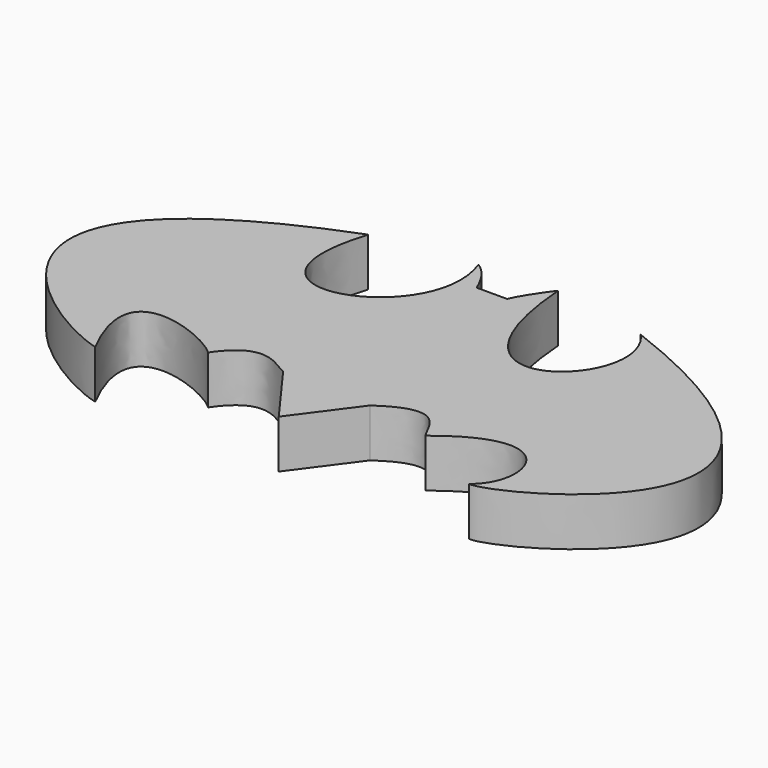
from build123d import *

# Parameters (mm, degrees)
F1_DEPTH = 10
F2_DEPTH = 10


with BuildPart() as f1:
    # F0 (on Top) → F1 (new body)
    with BuildSketch(Plane.XY):
        with BuildLine():
            Line((3.0976026609, 40.3743684292), (-3.1979687046, 40.3743684292))
            add(Edge.make_bspline(
                [(-8.0394047152, 46.8744894546), (-5.0634508952, 44.9048280716), (-3.997460939, 41.9733524323), (-3.1979687046, 40.3743684292)],
                knots=[0, 0, 0, 0, 8.1050031455, 8.1050031455, 8.1050031455, 8.1050031455], degree=3))
            add(Edge.make_bspline(
                [(-8.0394047152, 46.8744894546), (0, 24.9175149947), (-38.6421345174, 11.5926405415), (-28.4783576003, 43.922968086)],
                knots=[0, 0, 0, 0, 20.6509630146, 20.6509630146, 20.6509630146, 20.6509630146], degree=3))
            add(Edge.make_bspline(
                [(-28.4783576003, 43.922968086), (-98.0710685253, 17.1890873462), (-49.30203408, -11.5926405415), (-38.3756347001, -14.2576145008)],
                knots=[0, 0, 0, 0, 59.0164069063, 59.0164069063, 59.0164069063, 59.0164069063], degree=3))
            add(Edge.make_bspline(
                [(-38.3756347001, -14.2576145008), (-50.3680221736, 8.9276656508), (-27.4492390454, 0), (-22.9187831283, -4.3972083367)],
                knots=[0, 0, 0, 0, 18.3341721993, 18.3341721993, 18.3341721993, 18.3341721993], degree=3))
            add(Edge.make_bspline(
                [(-9.3274116516, -1.9987309352), (-11.7485010996, -1.0202123085), (-16.9190522283, 4.4950419106), (-22.9187831283, -4.3972083367)],
                knots=[0, 0, 0, 0, 13.8013793681, 13.8013793681, 13.8013793681, 13.8013793681], degree=3))
            Line((-9.3274116516, -1.9987309352), (0, -14.790609479))
            Line((0, -14.790609479), (9.0609146282, -2.5317261461))
            add(Edge.make_bspline(
                [(22.6522870362, -5.1967003383), (20.7868050784, -2.5317261461), (19.7208151221, 4.9302033149), (9.0609146282, -2.5317261461)],
                knots=[0, 0, 0, 0, 13.8501801929, 13.8501801929, 13.8501801929, 13.8501801929], degree=3))
            add(Edge.make_bspline(
                [(38.6421345174, -13.9911174774), (46.6370582581, -7.8616756946), (41.3071103394, 9.9936546758), (22.6522870362, -5.1967003383)],
                knots=[0, 0, 0, 0, 18.2487532531, 18.2487532531, 18.2487532531, 18.2487532531], degree=3))
            add(Edge.make_bspline(
                [(27.7157388628, 44.1053286195), (100.7360443473, 16.1230973899), (45.8375662565, -14.5241124555), (38.6421345174, -13.9911174774)],
                knots=[0, 0, 0, 0, 59.114999544, 59.114999544, 59.114999544, 59.114999544], degree=3))
            add(Edge.make_bspline(
                [(7.7284271829, 47.569796443), (10.926396586, 4.6637058258), (40.2411185205, 30.5139608681), (27.7157388628, 44.1053286195)],
                knots=[0, 0, 0, 0, 20.2853436128, 20.2853436128, 20.2853436128, 20.2853436128], degree=3))
            add(Edge.make_bspline(
                [(3.1979703344, 40.3743684292), (3.8295369522, 41.0204581019), (7.468618972, 46.819058009), (7.7284271829, 47.569796443)],
                knots=[0.268846453, 0.268846453, 0.268846453, 0.268846453, 0.6834405804, 0.6834405804, 0.6834405804, 0.6834405804], degree=3))
            add(Edge.make_bspline(
                [(3.0976026609, 40.3743684292), (3.0826582179, 40.2937456666), (3.1132640682, 40.2877143181), (3.1979703344, 40.3743684292)],
                knots=[0.2132407266, 0.2132407266, 0.2132407266, 0.2132407266, 0.268846453, 0.268846453, 0.268846453, 0.268846453], degree=3))
        make_face()
        with BuildLine():
            add(Edge.make_bspline(
                [(4.7969548032, 43.5723364353), (3.882095611, 42.089682322), (3.1549126557, 40.683546235), (3.0976026609, 40.3743684292)],
                knots=[0, 0, 0, 0, 0.2132407266, 0.2132407266, 0.2132407266, 0.2132407266], degree=3))
            Line((3.0976026609, 40.3743684292), (3.1979703344, 40.3743684292))
            add(Edge.make_bspline(
                [(3.1979703344, 40.3743684292), (3.8295369522, 41.0204581019), (7.468618972, 46.819058009), (7.7284271829, 47.569796443)],
                knots=[0.268846453, 0.268846453, 0.268846453, 0.268846453, 0.6834405804, 0.6834405804, 0.6834405804, 0.6834405804], degree=3))
            add(Edge.make_bspline(
                [(7.7284271829, 47.569796443), (7.9268012818, 48.1430156645), (6.1550785515, 45.7733612259), (4.7969548032, 43.5723364353)],
                knots=[0.6834405804, 0.6834405804, 0.6834405804, 0.6834405804, 1, 1, 1, 1], degree=3))
        make_face()
        with BuildLine():
            Line((3.1979703344, 40.3743684292), (3.0976026609, 40.3743684292))
            add(Edge.make_bspline(
                [(3.0976026609, 40.3743684292), (3.0826582179, 40.2937456666), (3.1132640682, 40.2877143181), (3.1979703344, 40.3743684292)],
                knots=[0.2132407266, 0.2132407266, 0.2132407266, 0.2132407266, 0.268846453, 0.268846453, 0.268846453, 0.268846453], degree=3))
        make_face()
    extrude(amount=F1_DEPTH)

    # F0 (on Top) → F2 (join)
    with BuildSketch(Plane.XY):
        with BuildLine():
            Line((3.0976026609, 40.3743684292), (-3.1979687046, 40.3743684292))
            add(Edge.make_bspline(
                [(-8.0394047152, 46.8744894546), (-5.0634508952, 44.9048280716), (-3.997460939, 41.9733524323), (-3.1979687046, 40.3743684292)],
                knots=[0, 0, 0, 0, 8.1050031455, 8.1050031455, 8.1050031455, 8.1050031455], degree=3))
            add(Edge.make_bspline(
                [(-8.0394047152, 46.8744894546), (0, 24.9175149947), (-38.6421345174, 11.5926405415), (-28.4783576003, 43.922968086)],
                knots=[0, 0, 0, 0, 20.6509630146, 20.6509630146, 20.6509630146, 20.6509630146], degree=3))
            add(Edge.make_bspline(
                [(-28.4783576003, 43.922968086), (-98.0710685253, 17.1890873462), (-49.30203408, -11.5926405415), (-38.3756347001, -14.2576145008)],
                knots=[0, 0, 0, 0, 59.0164069063, 59.0164069063, 59.0164069063, 59.0164069063], degree=3))
            add(Edge.make_bspline(
                [(-38.3756347001, -14.2576145008), (-50.3680221736, 8.9276656508), (-27.4492390454, 0), (-22.9187831283, -4.3972083367)],
                knots=[0, 0, 0, 0, 18.3341721993, 18.3341721993, 18.3341721993, 18.3341721993], degree=3))
            add(Edge.make_bspline(
                [(-9.3274116516, -1.9987309352), (-11.7485010996, -1.0202123085), (-16.9190522283, 4.4950419106), (-22.9187831283, -4.3972083367)],
                knots=[0, 0, 0, 0, 13.8013793681, 13.8013793681, 13.8013793681, 13.8013793681], degree=3))
            Line((-9.3274116516, -1.9987309352), (0, -14.790609479))
            Line((0, -14.790609479), (9.0609146282, -2.5317261461))
            add(Edge.make_bspline(
                [(22.6522870362, -5.1967003383), (20.7868050784, -2.5317261461), (19.7208151221, 4.9302033149), (9.0609146282, -2.5317261461)],
                knots=[0, 0, 0, 0, 13.8501801929, 13.8501801929, 13.8501801929, 13.8501801929], degree=3))
            add(Edge.make_bspline(
                [(38.6421345174, -13.9911174774), (46.6370582581, -7.8616756946), (41.3071103394, 9.9936546758), (22.6522870362, -5.1967003383)],
                knots=[0, 0, 0, 0, 18.2487532531, 18.2487532531, 18.2487532531, 18.2487532531], degree=3))
            add(Edge.make_bspline(
                [(27.7157388628, 44.1053286195), (100.7360443473, 16.1230973899), (45.8375662565, -14.5241124555), (38.6421345174, -13.9911174774)],
                knots=[0, 0, 0, 0, 59.114999544, 59.114999544, 59.114999544, 59.114999544], degree=3))
            add(Edge.make_bspline(
                [(7.7284271829, 47.569796443), (10.926396586, 4.6637058258), (40.2411185205, 30.5139608681), (27.7157388628, 44.1053286195)],
                knots=[0, 0, 0, 0, 20.2853436128, 20.2853436128, 20.2853436128, 20.2853436128], degree=3))
            add(Edge.make_bspline(
                [(3.1979703344, 40.3743684292), (3.8295369522, 41.0204581019), (7.468618972, 46.819058009), (7.7284271829, 47.569796443)],
                knots=[0.268846453, 0.268846453, 0.268846453, 0.268846453, 0.6834405804, 0.6834405804, 0.6834405804, 0.6834405804], degree=3))
            add(Edge.make_bspline(
                [(3.0976026609, 40.3743684292), (3.0826582179, 40.2937456666), (3.1132640682, 40.2877143181), (3.1979703344, 40.3743684292)],
                knots=[0.2132407266, 0.2132407266, 0.2132407266, 0.2132407266, 0.268846453, 0.268846453, 0.268846453, 0.268846453], degree=3))
        make_face()
        with BuildLine():
            add(Edge.make_bspline(
                [(4.7969548032, 43.5723364353), (3.882095611, 42.089682322), (3.1549126557, 40.683546235), (3.0976026609, 40.3743684292)],
                knots=[0, 0, 0, 0, 0.2132407266, 0.2132407266, 0.2132407266, 0.2132407266], degree=3))
            Line((3.0976026609, 40.3743684292), (3.1979703344, 40.3743684292))
            add(Edge.make_bspline(
                [(3.1979703344, 40.3743684292), (3.8295369522, 41.0204581019), (7.468618972, 46.819058009), (7.7284271829, 47.569796443)],
                knots=[0.268846453, 0.268846453, 0.268846453, 0.268846453, 0.6834405804, 0.6834405804, 0.6834405804, 0.6834405804], degree=3))
            add(Edge.make_bspline(
                [(7.7284271829, 47.569796443), (7.9268012818, 48.1430156645), (6.1550785515, 45.7733612259), (4.7969548032, 43.5723364353)],
                knots=[0.6834405804, 0.6834405804, 0.6834405804, 0.6834405804, 1, 1, 1, 1], degree=3))
        make_face()
        with BuildLine():
            Line((3.1979703344, 40.3743684292), (3.0976026609, 40.3743684292))
            add(Edge.make_bspline(
                [(3.0976026609, 40.3743684292), (3.0826582179, 40.2937456666), (3.1132640682, 40.2877143181), (3.1979703344, 40.3743684292)],
                knots=[0.2132407266, 0.2132407266, 0.2132407266, 0.2132407266, 0.268846453, 0.268846453, 0.268846453, 0.268846453], degree=3))
        make_face()
    extrude(amount=F2_DEPTH)


solid = f1.part
